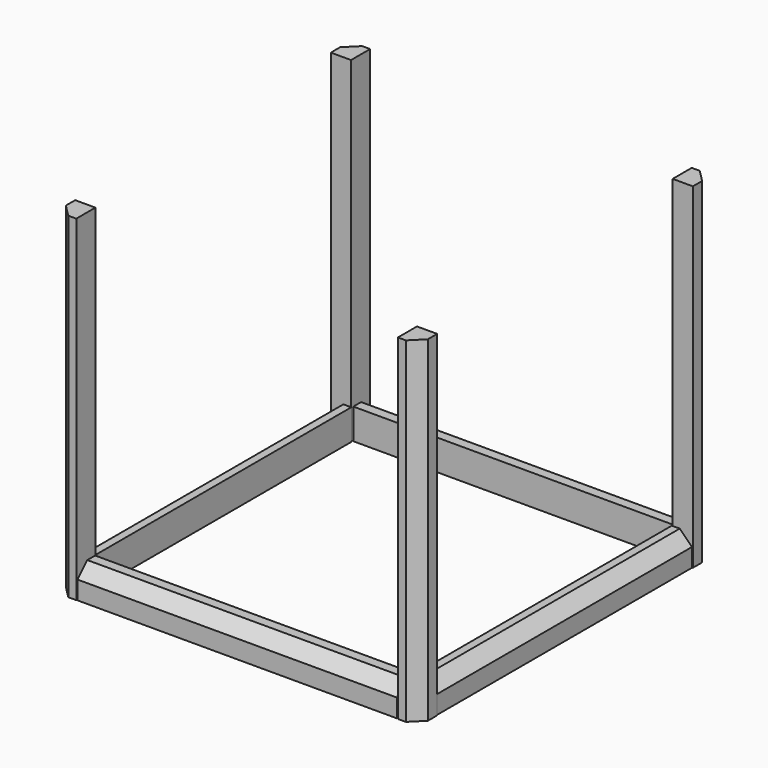
from build123d import *

# Parameters (mm, degrees)
F0_W       = 8.399859
F0_H       = 9.923994
F1_DEPTH   = 139.7
F5_W       = 8.380056
F5_H       = 132.445626
F6_DEPTH   = 12.7
F8_W       = 132.792532
F8_H       = 9.151451
F9_DEPTH   = 12.7
F11_SIZE   = 5.08
F12_SIZE   = 5.08
F12_2_SIZE = 5.08


with BuildPart() as f1:
    # F0 (on Top) → F1 (new body)
    with BuildSketch(Plane.XY):
        with Locations((-71.086309, 71.421087)):
            Rectangle(F0_W, F0_H)
    extrude(amount=F1_DEPTH)

    # F11
    f11_edges = [f1.edges().sort_by_distance(p)[0] for p in [
        (-75.286239, 76.383084, 69.85),
    ]]
    chamfer(f11_edges, length=F11_SIZE)


with BuildPart() as f2_1:
    # F2: instance of F1
    add(f1.part.mirror(Plane.YZ))

    # F7: F6, F1 across plane


with BuildPart() as f3_1:
    # F3: instance of F2_1
    add(f2_1.part.mirror(Plane.XZ))


with BuildPart() as f4_1:
    # F4: instance of F3_1
    add(f3_1.part.mirror(Plane.YZ))


with BuildPart() as f6:
    # F5 (on Top) → F6 (new body)
    with BuildSketch(Plane.XY):
        with Locations((-70.843771, 0.088375)):
            Rectangle(F5_W, F5_H)
    extrude(amount=F6_DEPTH)

    # F12#2
    f12_2_edges = [f6.edges().sort_by_distance(p)[0] for p in [
        (-75.033799, 0.088375, 12.7),
    ]]
    chamfer(f12_2_edges, length=F12_2_SIZE)


with BuildPart() as f2_1_1:
    add(f2_1.part)
    add(f6.part.mirror(Plane.YZ))
    add(f1.part.mirror(Plane.YZ))


with BuildPart() as f9:
    # F8 (on Top) → F9 (new body)
    with BuildSketch(Plane.XY):
        with Locations((-0.061363, -71.673903)):
            Rectangle(F8_W, F8_H)
    extrude(amount=F9_DEPTH)

    # F12
    f12_edges = [f9.edges().sort_by_distance(p)[0] for p in [
        (-0.061363, -76.249629, 12.7),
    ]]
    chamfer(f12_edges, length=F12_SIZE)


with BuildPart() as f10_1:
    # F10: instance of F9
    add(f9.part.mirror(Plane.XZ))


solid = Compound([f1.part, f3_1.part, f4_1.part, f6.part, f2_1_1.part, f9.part, f10_1.part])
